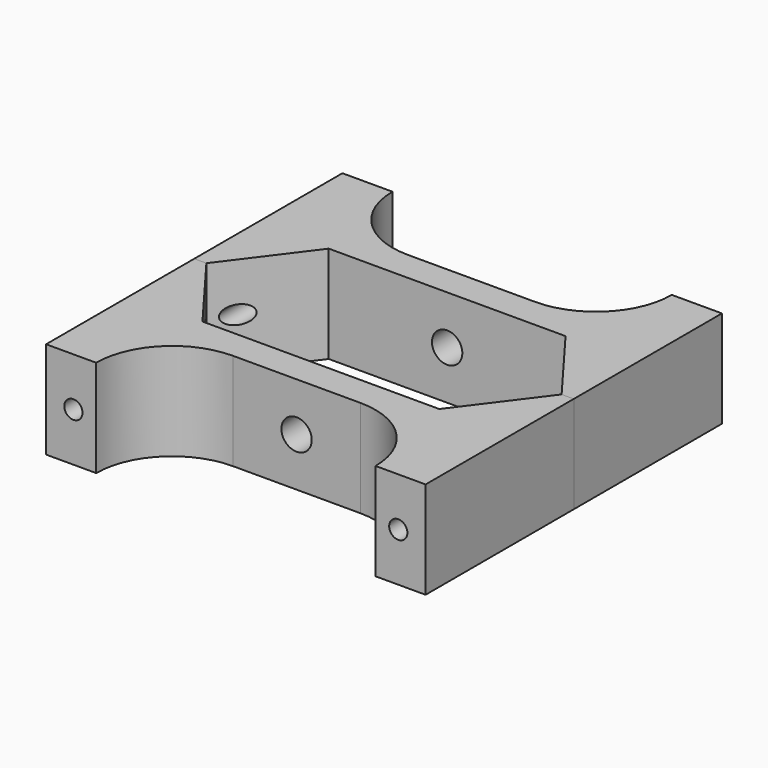
from build123d import *

# Parameters (mm, degrees)
F0_W      = 198.4375
F0_H      = 50.8
F1_DEPTH  = 96.8375
F3_DEPTH  = 50.801
F4_DEPTH  = 50.801
F5_R      = 7.9375
F6_DEPTH  = 57.151
F8_DEPTH  = 96.8385
F9_R      = 4.7625
F10_DEPTH = 96.8385


with BuildPart() as f1:
    # F0 (on Front) → F1 (new body)
    with BuildSketch(Plane.XZ):
        with Locations((-99.21875, 25.4)):
            Rectangle(F0_W, F0_H)
    extrude(amount=F1_DEPTH)

    # F2 (on face) → F3 (cut, through all)
    with BuildSketch(Plane.XY.offset(50.8)):
        with BuildLine():
            Line((-132.55625, -96.8375), (-99.21875, -96.8375))
            Line((-99.21875, -96.8375), (-65.88125, -96.8375))
            Line((-65.88125, -96.8375), (-26.19375, -96.8375))
            ThreePointArc((-26.19375, -96.8375), (-37.81795, -68.7742), (-65.88125, -57.15))
            Line((-65.88125, -57.15), (-132.55625, -57.15))
            ThreePointArc((-132.55625, -57.15), (-160.61955, -68.7742), (-172.24375, -96.8375))
            Line((-172.24375, -96.8375), (-132.55625, -96.8375))
        make_face()
    extrude(amount=-F3_DEPTH, mode=Mode.SUBTRACT)

    # F2 (on face) → F4 (cut, through all)
    with BuildSketch(Plane.XY.offset(50.8)):
        Polygon((-6.35, 0), (-192.0875, 0), (-161.13125, -41.275), (-99.21875, -41.275), (-37.30625, -41.275), align=None)
        with BuildLine():
            Line((-132.55625, -96.8375), (-99.21875, -96.8375))
            Line((-99.21875, -96.8375), (-65.88125, -96.8375))
            Line((-65.88125, -96.8375), (-26.19375, -96.8375))
            ThreePointArc((-26.19375, -96.8375), (-37.81795, -68.7742), (-65.88125, -57.15))
            Line((-65.88125, -57.15), (-132.55625, -57.15))
            ThreePointArc((-132.55625, -57.15), (-160.61955, -68.7742), (-172.24375, -96.8375))
            Line((-172.24375, -96.8375), (-132.55625, -96.8375))
        make_face()
    extrude(amount=-F4_DEPTH, mode=Mode.SUBTRACT)

    # F5 (on face) → F6 (cut, through all)
    with BuildSketch(Plane.XZ.offset(57.15)):
        with Locations((-99.21875, 25.4)):
            Circle(F5_R)
    extrude(amount=-F6_DEPTH, mode=Mode.SUBTRACT)

    # F7 (on face) → F8 (cut, through all)
    with BuildSketch(Plane.XZ.offset(96.8375)):
        with BuildLine():
            ThreePointArc((-188.9125, 25.4), (-184.15, 20.6375), (-179.3875, 25.4))
            ThreePointArc((-179.3875, 25.4), (-184.15, 30.1625), (-188.9125, 25.4))
        make_face()
    extrude(amount=-F8_DEPTH, mode=Mode.SUBTRACT)

    # F9 (on face) → F10 (cut, through all)
    with BuildSketch(Plane.XZ.offset(96.8375)):
        with Locations((-14.2875, 25.4)):
            Circle(F9_R)
    extrude(amount=-F10_DEPTH, mode=Mode.SUBTRACT)


with BuildPart() as f11_1:
    # F11: instance of F1
    add(f1.part.mirror(Plane.XZ))


solid = Compound([f1.part, f11_1.part])
